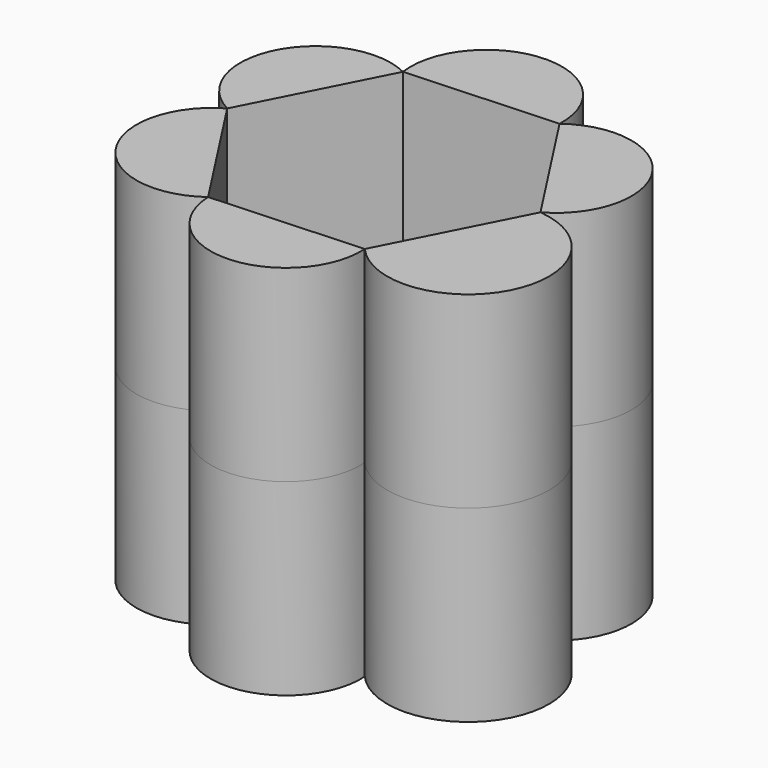
from build123d import *

# Parameters (mm, degrees)
F1_DEPTH = 50.8
F2_DEPTH = 25.4
F3_R     = 16.4357396554
F4_DEPTH = 50.8


with BuildPart() as f1:
    # F0 (on Top) → F1 (new body)
    with BuildSketch(Plane.XY):
        with BuildLine():
            Line((-11.0600166182, 17.0463612659), (9.2325735892, 18.1014359905))
            ThreePointArc((9.2325735892, 18.1014359905), (-1.4911778045, 28.6803004619), (-11.0600166182, 17.0463612659))
        make_face()
    extrude(amount=F1_DEPTH)


with BuildPart() as f1b:
    # F0 (on Top) → F1, piece 2 (new body)
    with BuildSketch(Plane.XY):
        with BuildLine():
            Line((-20.2925902074, -1.0550747247), (-11.0600166182, 17.0463612659))
            ThreePointArc((-11.0600166182, 17.0463612659), (-24.6189313982, 12.5567991369), (-20.2925902074, -1.0550747247))
        make_face()
    extrude(amount=F1_DEPTH)


with BuildPart() as f1c:
    # F0 (on Top) → F1, piece 3 (new body)
    with BuildSketch(Plane.XY):
        with BuildLine():
            ThreePointArc((-20.2925902074, -1.0550747247), (-23.8102253538, -15.4485455276), (-9.2325735892, -18.1014359905))
            Line((-9.2325735892, -18.1014359905), (-20.2925902074, -1.0550747247))
        make_face()
    extrude(amount=F1_DEPTH)


with BuildPart() as f1d:
    # F0 (on Top) → F1, piece 4 (new body)
    with BuildSketch(Plane.XY):
        with BuildLine():
            ThreePointArc((-9.2325735892, -18.1014359905), (1.4462232878, -27.8156758392), (11.0600166182, -17.0463612659))
            Line((11.0600166182, -17.0463612659), (-9.2325735892, -18.1014359905))
        make_face()
    extrude(amount=F1_DEPTH)


with BuildPart() as f1e:
    # F0 (on Top) → F1, piece 5 (new body)
    with BuildSketch(Plane.XY):
        with BuildLine():
            ThreePointArc((11.0600166182, -17.0463612659), (28.9492244374, -14.76544983), (20.2925902074, 1.0550747247))
            Line((20.2925902074, 1.0550747247), (11.0600166182, -17.0463612659))
        make_face()
    extrude(amount=F1_DEPTH)


with BuildPart() as f1f:
    # F0 (on Top) → F1, piece 6 (new body)
    with BuildSketch(Plane.XY):
        with BuildLine():
            Line((9.2325735892, 18.1014359905), (20.2925902074, 1.0550747247))
            ThreePointArc((20.2925902074, 1.0550747247), (23.8409041786, 15.4684505564), (9.2325735892, 18.1014359905))
        make_face()
    extrude(amount=F1_DEPTH)


with BuildPart() as f2:
    # F0 (on Top) → F2 (new body)
    with BuildSketch(Plane.XY):
        with BuildLine():
            ThreePointArc((11.0600166182, -17.0463612659), (28.9492244374, -14.76544983), (20.2925902074, 1.0550747247))
            Line((20.2925902074, 1.0550747247), (11.0600166182, -17.0463612659))
        make_face()
        Polygon((11.0600166182, -17.0463612659), (20.2925902074, 1.0550747247), (9.2325735892, 18.1014359905), (-11.0600166182, 17.0463612659), (-20.2925902074, -1.0550747247), (-9.2325735892, -18.1014359905), align=None)
        with BuildLine():
            Line((9.2325735892, 18.1014359905), (20.2925902074, 1.0550747247))
            ThreePointArc((20.2925902074, 1.0550747247), (23.8409041786, 15.4684505564), (9.2325735892, 18.1014359905))
        make_face()
        with BuildLine():
            ThreePointArc((-9.2325735892, -18.1014359905), (1.4462232878, -27.8156758392), (11.0600166182, -17.0463612659))
            Line((11.0600166182, -17.0463612659), (-9.2325735892, -18.1014359905))
        make_face()
        with BuildLine():
            Line((-11.0600166182, 17.0463612659), (9.2325735892, 18.1014359905))
            ThreePointArc((9.2325735892, 18.1014359905), (-1.4911778045, 28.6803004619), (-11.0600166182, 17.0463612659))
        make_face()
        with BuildLine():
            ThreePointArc((-20.2925902074, -1.0550747247), (-23.8102253538, -15.4485455276), (-9.2325735892, -18.1014359905))
            Line((-9.2325735892, -18.1014359905), (-20.2925902074, -1.0550747247))
        make_face()
        with BuildLine():
            Line((-20.2925902074, -1.0550747247), (-11.0600166182, 17.0463612659))
            ThreePointArc((-11.0600166182, 17.0463612659), (-24.6189313982, 12.5567991369), (-20.2925902074, -1.0550747247))
        make_face()
    extrude(amount=F2_DEPTH)

    # F3 (on Top) → F4 (cut)
    with BuildSketch(Plane.XY):
        Circle(F3_R)
    extrude(amount=F4_DEPTH, mode=Mode.SUBTRACT)


solid = Compound([f1.part, f1b.part, f1c.part, f1d.part, f1e.part, f1f.part, f2.part])
